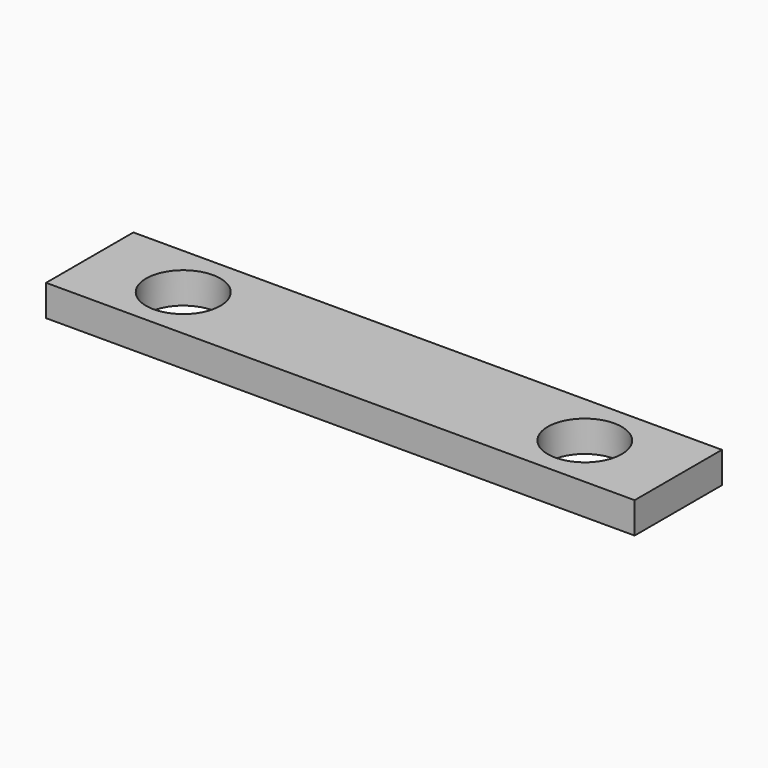
from build123d import *

# Parameters (mm, degrees)
F0_R     = 30.2514
F1_DEPTH = 25.4


with BuildPart() as f1:
    # F0 (on Top) → F1 (new body)
    with BuildSketch(Plane.XY):
        with BuildLine():
            ThreePointArc((-166.272223, 44.45), (-134.841327, 31.430896), (-121.822223, 0))
            Line((-121.822223, 0), (116.404377, 0))
            ThreePointArc((116.404377, 0), (129.423481, 31.430896), (160.854377, 44.45))
            Line((160.854377, 44.45), (-166.272223, 44.45))
        make_face()
        with BuildLine():
            ThreePointArc((-166.272223, -44.45), (-210.722223, 0), (-166.272223, 44.45))
            Line((-166.272223, 44.45), (-242.472223, 44.45))
            Line((-242.472223, 44.45), (-242.472223, -44.45))
            Line((-242.472223, -44.45), (-166.272223, -44.45))
        make_face()
        with BuildLine():
            ThreePointArc((-166.272223, -44.45), (-134.841327, -31.430896), (-121.822223, 0))
            ThreePointArc((-121.822223, 0), (-134.841327, 31.430896), (-166.272223, 44.45))
            ThreePointArc((-166.272223, 44.45), (-210.722223, 0), (-166.272223, -44.45))
        make_face()
        with Locations((-166.272223, 0)):
            Circle(F0_R, mode=Mode.SUBTRACT)
        with BuildLine():
            Line((116.404377, 0), (-121.822223, 0))
            ThreePointArc((-121.822223, 0), (-134.841327, -31.430896), (-166.272223, -44.45))
            Line((-166.272223, -44.45), (160.854377, -44.45))
            ThreePointArc((160.854377, -44.45), (129.423481, -31.430896), (116.404377, 0))
        make_face()
        with BuildLine():
            ThreePointArc((160.854377, 44.45), (129.423481, 31.430896), (116.404377, 0))
            ThreePointArc((116.404377, 0), (129.423481, -31.430896), (160.854377, -44.45))
            ThreePointArc((160.854377, -44.45), (192.285273, -31.430896), (205.304377, 0))
            ThreePointArc((205.304377, 0), (192.285273, 31.430896), (160.854377, 44.45))
        make_face()
        with BuildLine():
            ThreePointArc((191.029577, 0), (160.854377, -30.1752), (130.679177, 0))
            ThreePointArc((130.679177, 0), (160.854377, 30.1752), (191.029577, 0))
        make_face(mode=Mode.SUBTRACT)
        with BuildLine():
            Line((237.054377, 44.45), (160.854377, 44.45))
            ThreePointArc((160.854377, 44.45), (192.285273, 31.430896), (205.304377, 0))
            ThreePointArc((205.304377, 0), (192.285273, -31.430896), (160.854377, -44.45))
            Line((160.854377, -44.45), (237.054377, -44.45))
            Line((237.054377, -44.45), (237.054377, 44.45))
        make_face()
    extrude(amount=F1_DEPTH)


solid = f1.part
